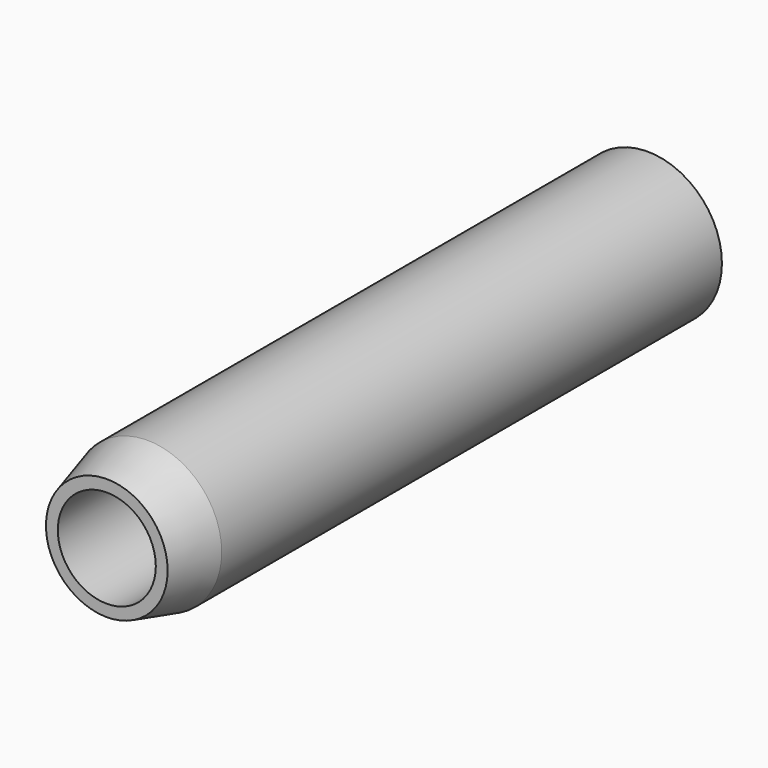
from build123d import *

# Parameters (mm, degrees)
F0_R     = 22
F0_R_2   = 14.5
F1_DEPTH = 200
F2_SIZE2 = 15
F2_SIZE  = 4


with BuildPart() as f1:
    # F0 (on Front) → F1 (new body)
    with BuildSketch(Plane.XZ):
        Circle(F0_R)
        Circle(F0_R_2, mode=Mode.SUBTRACT)
    extrude(amount=F1_DEPTH)

    # F2
    f2_edges = [f1.edges().sort_by_distance(p)[0] for p in [
        (-22, -200, 0),
    ]]
    f2_side = f1.faces().sort_by_distance((-21.377746, -200, 0))[0]
    chamfer(f2_edges, length=F2_SIZE, length2=F2_SIZE2, reference=f2_side)


solid = f1.part
